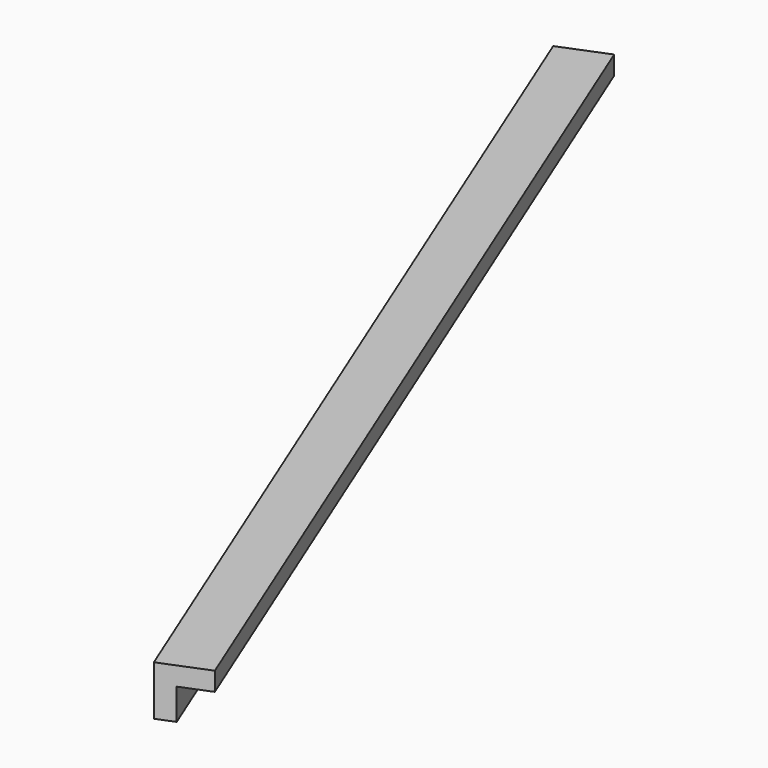
from build123d import *

# Parameters (mm, degrees)
BOX169_W               = 0.8
BOX169_H               = 17.5
BOX169_DEPTH           = 0.8
BOX170_W               = 0.8
BOX170_H               = 17.5
BOX170_DEPTH           = 0.8
CUT088_PLACEMENT_ANGLE = 202


with BuildPart() as cubo169:
    # Box169 → Box169 (new body)
    with BuildSketch(Plane.XY):
        with Locations((0.4, 8.75)):
            Rectangle(BOX169_W, BOX169_H)
    extrude(amount=BOX169_DEPTH)


with BuildPart() as obj1:
    # Box170 → Box170 (new body)
    with BuildSketch(Plane(origin=(0.3, 0, 0.3), x_dir=(1, 0, 0), z_dir=(0, 0, 1))):
        with Locations((0.4, 8.75)):
            Rectangle(BOX170_W, BOX170_H)
    extrude(amount=BOX170_DEPTH)

    # Cut088: cut Cubo169
    add(cubo169.part, mode=Mode.SUBTRACT)


with BuildPart() as obj1_1:
    # Cut088 placement: moved
    add(obj1.part.moved(Location((-192, 132.4, -1.45))).rotate(Axis((-192, 132.4, -1.45), (0, 0, 1)), CUT088_PLACEMENT_ANGLE))


solid = obj1_1.part
